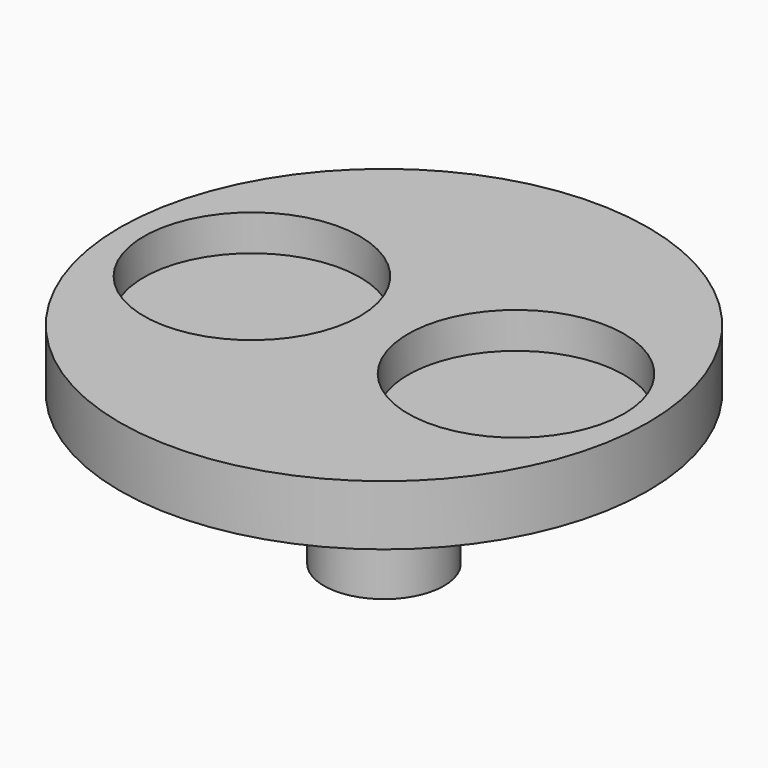
from build123d import *

# Parameters (mm, degrees)
F1_R     = 5
F1_R_2   = 3
F3_DEPTH = 12.5
F5_R     = 22
F6_DEPTH = 5
F7_R     = 9
F8_DEPTH = 3


with BuildPart() as f3:
    # F1 (on Top) → F3 (new body)
    with BuildSketch(Plane.XY):
        Circle(F1_R)
        Circle(F1_R_2, mode=Mode.SUBTRACT)
    extrude(amount=-F3_DEPTH)

    # F5 (on Top) → F6 (join)
    with BuildSketch(Plane.XY):
        Circle(F5_R)
    extrude(amount=F6_DEPTH)

    # F7 (on face) → F8 (cut)
    with BuildSketch(Plane.XY.offset(5)):
        with Locations((11, 0)):
            Circle(F7_R)
        with Locations((-11, 0)):
            Circle(F7_R)
    extrude(amount=-F8_DEPTH, mode=Mode.SUBTRACT)


solid = f3.part
